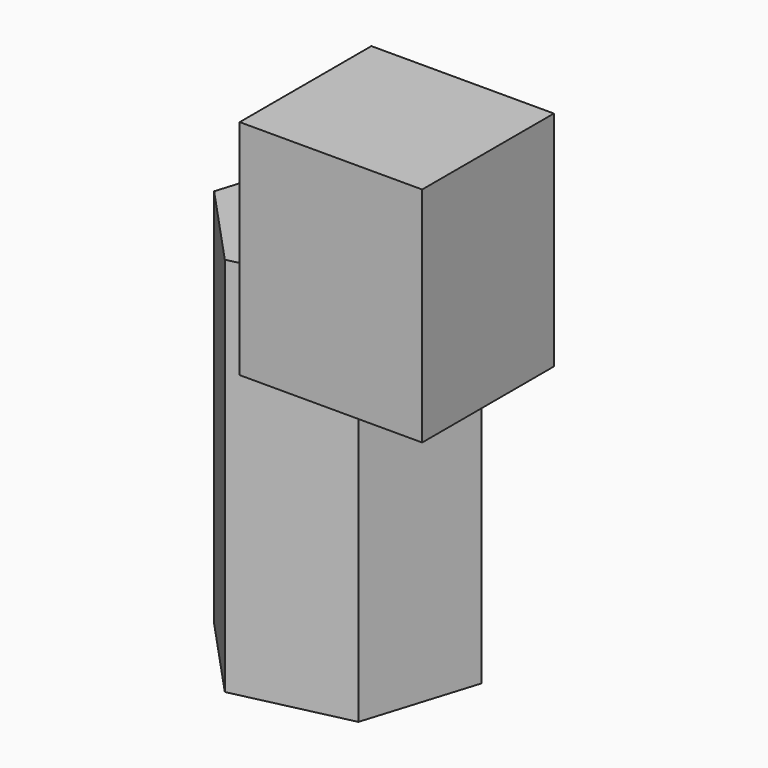
from build123d import *

# Parameters (mm, degrees)
F0_W     = 97.185835
F0_H     = 87.678998
F1_DEPTH = 118.635418
F3_DEPTH = 202.712862


with BuildPart() as f1:
    # F0 (on Top) → F1 (new body)
    with BuildSketch(Plane.XY):
        with Locations((22.587158, -22.692114)):
            Rectangle(F0_W, F0_H)
    extrude(amount=F1_DEPTH)


with BuildPart() as f3:
    # F2 (on Top) → F3 (new body)
    with BuildSketch(Plane.XY):
        Polygon((-17.330434, 83.456065), (-59.268419, 128.766646), (-119.477526, 115.102576), (-137.748648, 56.127925), (-95.810663, 10.817344), (-35.601556, 24.481414), align=None)
    extrude(amount=-F3_DEPTH)


solid = Compound([f1.part, f3.part])
